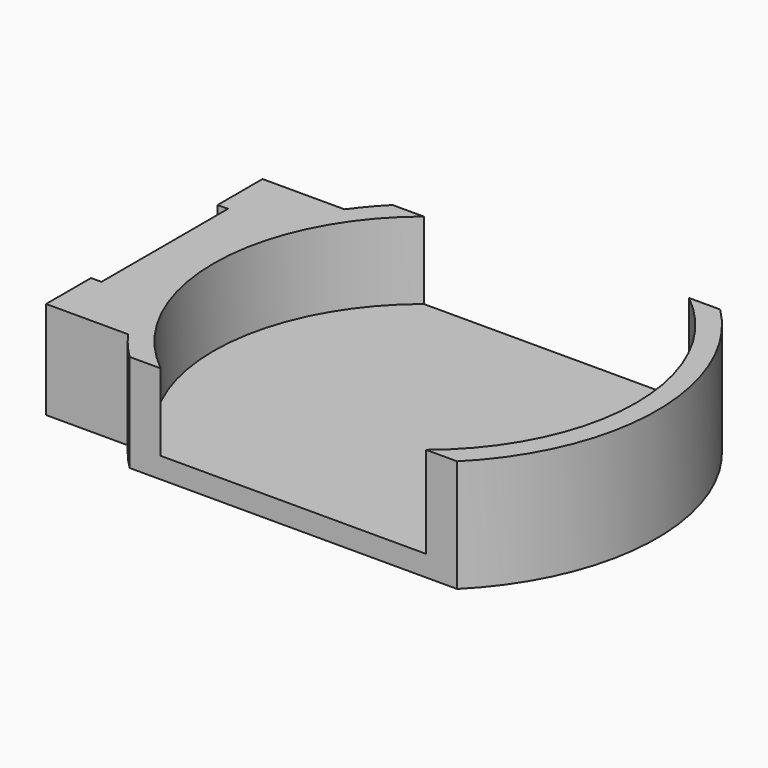
from build123d import *

# Parameters (mm, degrees)
F1_DEPTH = 5.4
F3_DEPTH = 4.4
F4_DEPTH = 0.7


with BuildPart() as f1:
    # F0 (on Top) → F1 (new body)
    with BuildSketch(Plane.XY):
        with BuildLine():
            Line((-13, -6.5), (-9.0593873965, -6.5))
            ThreePointArc((-9.0593873965, -6.5), (-8.4928156006, -7.2245818685), (-7.8684496567, -7.9))
            Line((-7.8684496567, -7.9), (7.8684496567, -7.9))
            ThreePointArc((7.8684496567, -7.9), (11.15, 0), (7.8684496567, 7.9))
            Line((7.8684496567, 7.9), (-7.8684496567, 7.9))
            ThreePointArc((-7.8684496567, 7.9), (-8.4928156006, 7.2245818685), (-9.0593873965, 6.5))
            Line((-9.0593873965, 6.5), (-13, 6.5))
            Line((-13, 6.5), (-13, 3.8))
            Line((-13, 3.8), (-12.5, 3.8))
            Line((-12.5, 3.8), (-12.5, -3.8))
            Line((-12.5, -3.8), (-13, -3.8))
            Line((-13, -3.8), (-13, -6.5))
        make_face()
    extrude(amount=F1_DEPTH)

    # F2 (on face) → F3 (cut)
    with BuildSketch(Plane.XY.offset(5.4)):
        with BuildLine():
            ThreePointArc((6.3727937359, -7.9), (9.1571381015, -4.3782784049), (10.15, 0))
            ThreePointArc((10.15, 0), (9.1571381015, 4.3782784049), (6.3727937359, 7.9))
            Line((6.3727937359, 7.9), (-6.3727937359, 7.9))
            ThreePointArc((-6.3727937359, 7.9), (-10.15, 0), (-6.3727937359, -7.9))
            Line((-6.3727937359, -7.9), (6.3727937359, -7.9))
        make_face()
    extrude(amount=-F3_DEPTH, mode=Mode.SUBTRACT)

    # F4 (cut): a face of the model
    f4_faces = [f1.faces().sort_by_distance(p)[0] for p in [
        (-10.7326109912, 0, 5.4),
    ]]
    extrude(f4_faces, amount=-F4_DEPTH, mode=Mode.SUBTRACT)


solid = f1.part
